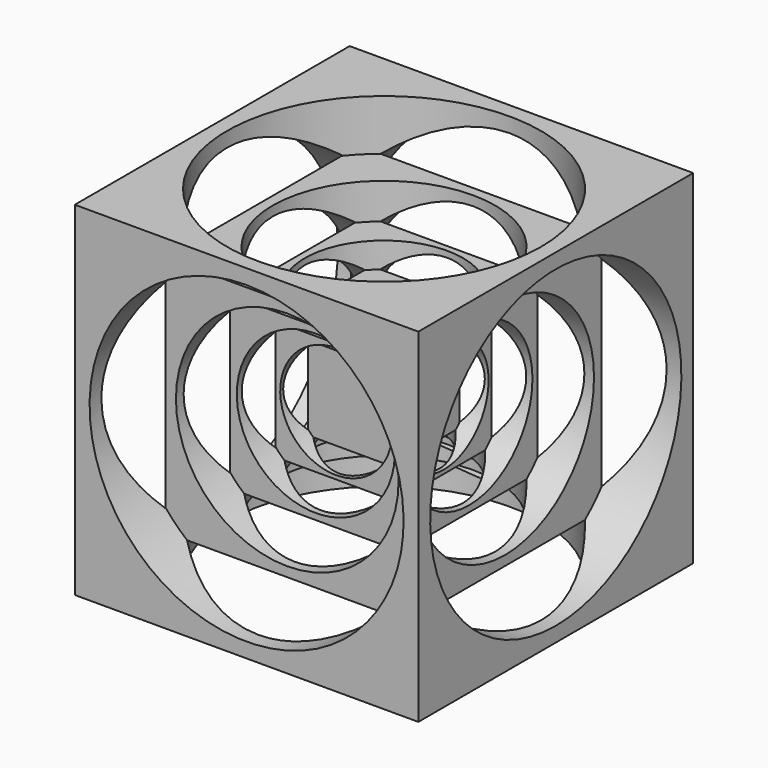
from build123d import *

# Parameters (mm, degrees)
F2_DEPTH = 25


with BuildPart() as f2:
    # F1 (on Front) → F2 (new body, symmetric)
    with BuildSketch(Plane.XZ):
        Polygon((-25, 25), (-25, 0), (-25, -25), (25, -25), (25, 25), align=None)
    extrude(amount=F2_DEPTH, both=True)

    # F3 (on Front) → F4 (revolve, cut)
    with BuildSketch(Plane.XZ):
        Polygon((22.85, 25), (0, 25), (0, 6.1), (8.15, 6.1), (8.15, 8.7), (11.5, 8.7), (11.5, 12.4), (16.2, 12.4), (16.2, 17.6), (22.85, 17.6), align=None)
    revolve(axis=Axis((0, 0, 15.55), (0, 0, 1)), mode=Mode.SUBTRACT)

    # F5 (on Front) → F6 (revolve, cut)
    with BuildSketch(Plane.XZ):
        Polygon((-22.85, -25), (0, -25), (0, -6.1), (-8.15, -6.1), (-8.15, -8.7), (-11.5, -8.7), (-11.5, -12.4), (-16.2, -12.4), (-16.2, -17.6), (-22.85, -17.6), align=None)
    revolve(axis=Axis((0, 0, -15.55), (0, 0, -1)), mode=Mode.SUBTRACT)

    # F7 (on Right) → F8 (revolve, cut)
    with BuildSketch(Plane.YZ):
        Polygon((-25, 22.85), (-25, 0), (-6.1, 0), (-6.1, 8.15), (-8.7, 8.15), (-8.7, 11.5), (-12.4, 11.5), (-12.4, 16.2), (-17.6, 16.2), (-17.6, 22.85), align=None)
    revolve(axis=Axis((0, -15.55, 0), (0, -1, 0)), mode=Mode.SUBTRACT)

    # F9 (on Right) → F10 (revolve, cut)
    with BuildSketch(Plane.YZ):
        Polygon((25, -22.85), (25, 0), (6.1, 0), (6.1, -8.15), (8.7, -8.15), (8.7, -11.5), (12.4, -11.5), (12.4, -16.2), (17.6, -16.2), (17.6, -22.85), align=None)
    revolve(axis=Axis((0, 15.55, 0), (0, 1, 0)), mode=Mode.SUBTRACT)

    # F11 (on Front) → F12 (revolve, cut)
    with BuildSketch(Plane.XZ):
        Polygon((-25.1000002027, 22.85), (-25.1000002027, 0), (-6.2000002027, 0), (-6.2000002027, 8.15), (-8.8000002027, 8.15), (-8.8000002027, 11.5), (-12.5000002027, 11.5), (-12.5000002027, 16.2), (-17.7000002027, 16.2), (-17.7000002027, 22.85), align=None)
    revolve(axis=Axis((-15.6500002027, 0, 0), (-1, 0, 0)), mode=Mode.SUBTRACT)

    # F13 (on Front) → F14 (revolve, cut)
    with BuildSketch(Plane.XZ):
        Polygon((25, -22.85), (25, 0), (6.1, 0), (6.1, -8.15), (8.7, -8.15), (8.7, -11.5), (12.4, -11.5), (12.4, -16.2), (17.6, -16.2), (17.6, -22.85), align=None)
    revolve(axis=Axis((15.55, 0, 0), (1, 0, 0)), mode=Mode.SUBTRACT)


solid = f2.part
